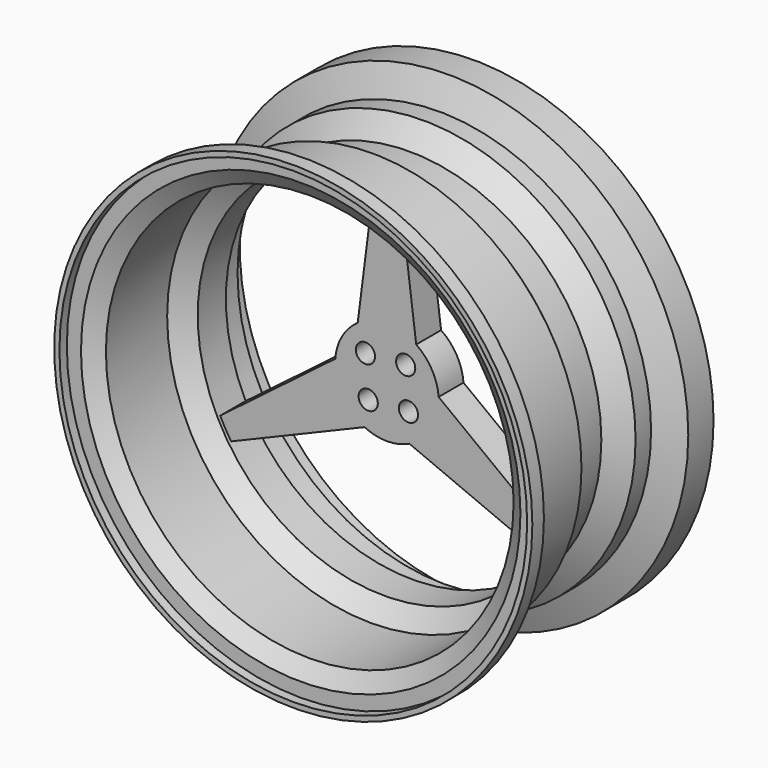
from build123d import *

# Parameters (mm, degrees)
F3_R     = 23.5045362994
F4_DEPTH = 76.2


with BuildPart() as f1:
    # F0 (on Top) → F1 (revolve)
    with BuildSketch(Plane.XY):
        Polygon((573.0409642621, -553.5393390198), (585.7409642621, -553.5393390198), (585.7409642621, -518.0866146582), (542.4275865968, -518.0866146582), (512.1499083626, -496.5325579214), (512.1499083626, -311.0723252855), (469.6844318455, -269.9765585894), (469.6844318455, -197.0943934766), (519.4383481781, -154.4892936945), (519.4383481781, -107.0225714794), (586.8421554444, -77.3644662998), (586.8421554444, 0), (574.1421554444, 0), (574.1421554444, -61.8945817717), (506.7383481781, -90.8532650404), (506.7383481781, -146.9035498934), (456.9844318455, -188.7616498797), (456.9844318455, -275.1079445892), (499.4499083626, -315.4920612499), (499.4499083626, -503.081022234), (538.3688470547, -530.7866146582), (573.0409642621, -530.7866146582), align=None)
    revolve(axis=Axis((0, -57.5910839191, 0), (0, -1, 0)))

    # F3 (on offset) → F4 (join)
    with BuildSketch(Plane.XZ.offset(190.5)):
        with BuildLine():
            Line((-381.5941034135, -251.4372907688), (-54.9773815999, -114.4835687443))
            ThreePointArc((-54.9773815999, -114.4835687443), (-109.9852262806, -63.5), (-126.6343696484, 9.6299752731))
            Line((-126.6343696484, 9.6299752731), (-408.5481329713, -204.7515421061))
            ThreePointArc((-408.5481329713, -204.7515421061), (-395.7601271122, -228.4922159227), (-381.5941034135, -251.4372907688))
        make_face()
        with BuildLine():
            ThreePointArc((-71.6569880485, 104.8535934712), (-37.5006241892, 121.3371467664), (0, 127))
            Line((0, 127), (0, 456.9844318455))
            ThreePointArc((0, 456.9844318455), (-13.4828844014, 456.785488799), (-26.9540295578, 456.1888328749))
            Line((-26.9540295578, 456.1888328749), (-71.6569880485, 104.8535934712))
        make_face()
        with BuildLine():
            ThreePointArc((0, 127), (37.5006241892, 121.3371467664), (71.6569880485, 104.8535934712))
            Line((71.6569880485, 104.8535934712), (26.9540295578, 456.1888328749))
            ThreePointArc((26.9540295578, 456.1888328749), (13.4828844014, 456.785488799), (0, 456.9844318455))
            Line((0, 456.9844318455), (0, 127))
        make_face()
        with BuildLine():
            ThreePointArc((126.6343696484, 9.6299752731), (126.9085594933, 4.8184569448), (127, 0))
            ThreePointArc((127, 0), (107.4968080065, -67.6271858679), (54.9773815999, -114.4835687443))
            Line((54.9773815999, -114.4835687443), (381.5941034135, -251.4372907688))
            ThreePointArc((381.5941034135, -251.4372907688), (395.7601271122, -228.4922159227), (408.5481329713, -204.7515421061))
            Line((408.5481329713, -204.7515421061), (126.6343696484, 9.6299752731))
        make_face()
        with BuildLine():
            ThreePointArc((54.9773815999, -114.4835687443), (107.4968080065, -67.6271858679), (127, 0))
            ThreePointArc((127, 0), (126.9085594933, 4.8184569448), (126.6343696484, 9.6299752731))
            ThreePointArc((126.6343696484, 9.6299752731), (109.9852262806, 63.5), (71.6569880485, 104.8535934712))
            ThreePointArc((71.6569880485, 104.8535934712), (37.5006241892, 121.3371467664), (0, 127))
            ThreePointArc((0, 127), (-37.5006241892, 121.3371467664), (-71.6569880485, 104.8535934712))
            ThreePointArc((-71.6569880485, 104.8535934712), (-109.9852262806, 63.5), (-126.6343696484, 9.6299752731))
            ThreePointArc((-126.6343696484, 9.6299752731), (-109.9852262806, -63.5), (-54.9773815999, -114.4835687443))
            ThreePointArc((-54.9773815999, -114.4835687443), (0, -127), (54.9773815999, -114.4835687443))
        make_face()
        with Locations((-45.8940714598, -52.665323019)):
            Circle(F3_R, mode=Mode.SUBTRACT)
        with Locations((52.665323019, -45.8940714598)):
            Circle(F3_R, mode=Mode.SUBTRACT)
        with Locations((-52.665323019, 45.8940714598)):
            Circle(F3_R, mode=Mode.SUBTRACT)
        with Locations((45.8940714598, 52.665323019)):
            Circle(F3_R, mode=Mode.SUBTRACT)
    extrude(amount=F4_DEPTH)


solid = f1.part
